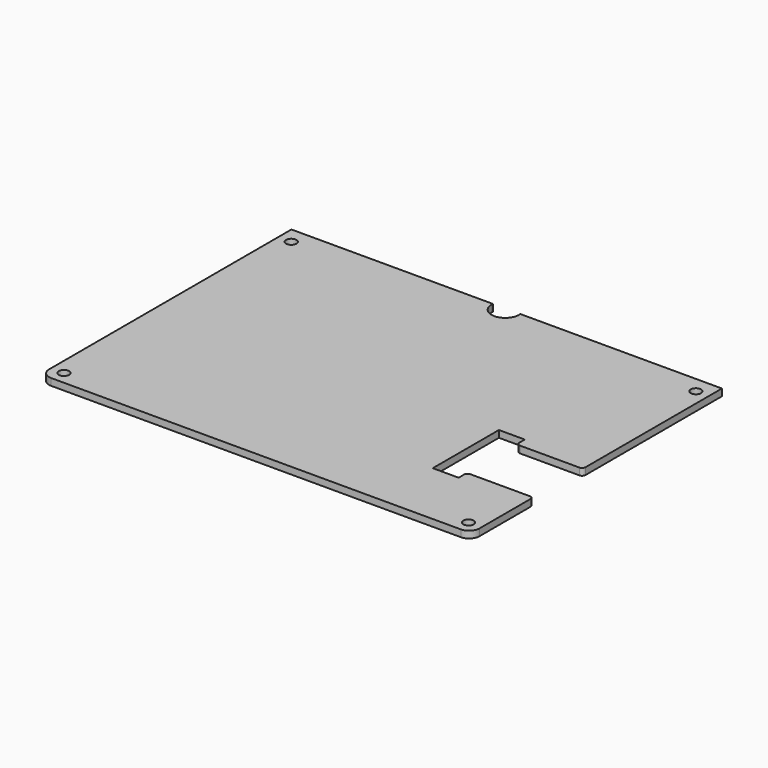
from build123d import *

# Parameters (mm, degrees)
F0_R     = 1.5
F1_DEPTH = 2
F3_DEPTH = 2.001


with BuildPart() as f1:
    # F0 (on Top) → F1 (new body)
    with BuildSketch(Plane.XY):
        with BuildLine():
            Line((62.5, 45.5), (-62.5, 45.5))
            Line((-62.5, 45.5), (-62.5, -42.5))
            ThreePointArc((-62.5, -42.5), (-61.62132, -44.62132), (-59.5, -45.5))
            Line((-59.5, -45.5), (59.5, -45.5))
            ThreePointArc((59.5, -45.5), (61.62132, -44.62132), (62.5, -42.5))
            Line((62.5, -42.5), (62.5, -24))
            ThreePointArc((62.5, -24), (62.207107, -23.292893), (61.5, -23))
            Line((61.5, -23), (44.25, -23))
            ThreePointArc((44.25, -23), (43.542893, -23.292893), (43.25, -24))
            Line((43.25, -24), (43.25, -26))
            Line((43.25, -26), (35.75, -26))
            Line((35.75, -26), (35.75, -2))
            Line((35.75, -2), (43.25, -2))
            Line((43.25, -2), (43.25, -4))
            ThreePointArc((43.25, -4), (43.542893, -4.707107), (44.25, -5))
            Line((44.25, -5), (61.5, -5))
            ThreePointArc((61.5, -5), (62.207107, -4.707107), (62.5, -4))
            Line((62.5, -4), (62.5, 45.5))
        make_face()
        with Locations((-58.75, -41.75)):
            Circle(F0_R, mode=Mode.SUBTRACT)
        with Locations((58.75, -41.75)):
            Circle(F0_R, mode=Mode.SUBTRACT)
        with Locations((-58.75, 40.75)):
            Circle(F0_R, mode=Mode.SUBTRACT)
        with Locations((58.75, 40.75)):
            Circle(F0_R, mode=Mode.SUBTRACT)
    extrude(amount=F1_DEPTH)

    # F2 (on face) → F3 (cut, through all)
    with BuildSketch(Plane.XY.offset(2)):
        with BuildLine():
            ThreePointArc((-3.968627, 45.5), (-3.992149, 45.250492), (-4, 45))
            ThreePointArc((-4, 45), (0, 41), (4, 45))
            ThreePointArc((4, 45), (3.992149, 45.250492), (3.968627, 45.5))
            Line((3.968627, 45.5), (-3.968627, 45.5))
        make_face()
        with BuildLine():
            ThreePointArc((0, 49), (2.645751, 48), (3.968627, 45.5))
            Line((3.968627, 45.5), (4, 45.5))
            Line((4, 45.5), (4, 49))
            Line((4, 49), (0, 49))
        make_face()
        with BuildLine():
            Line((-4, 45.5), (-3.968627, 45.5))
            ThreePointArc((-3.968627, 45.5), (-2.645751, 48), (0, 49))
            Line((0, 49), (-4, 49))
            Line((-4, 49), (-4, 45.5))
        make_face()
    extrude(amount=-F3_DEPTH, mode=Mode.SUBTRACT)


solid = f1.part
